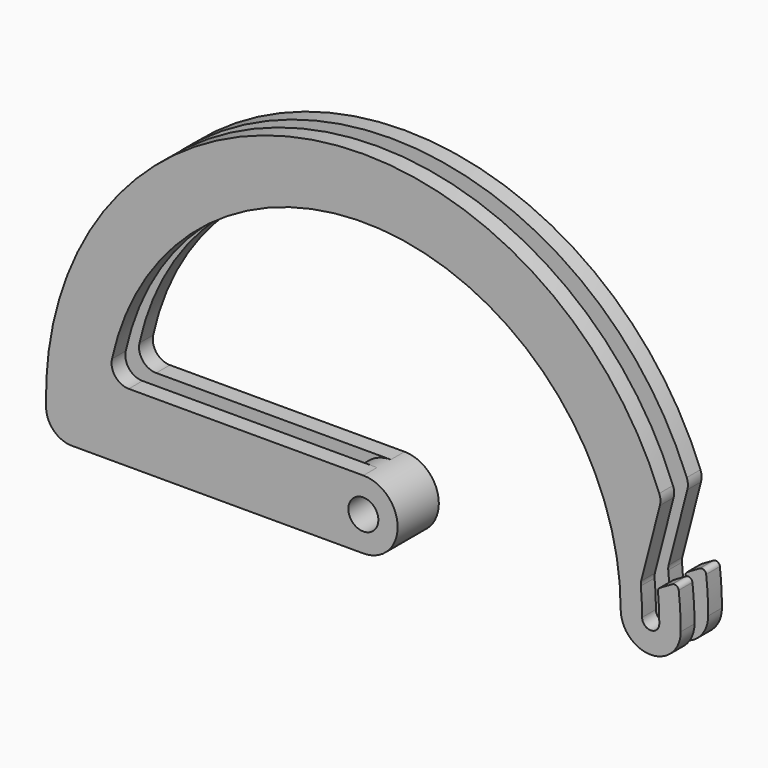
from build123d import *

# Parameters (mm, degrees)
F1_DEPTH = 2
F3_DEPTH = 2
F5_DEPTH = 2
F6_R     = 1.75
F7_DEPTH = 6


with BuildPart() as f1:
    # F0 (on Front) → F1 (new body)
    with BuildSketch(Plane.XZ):
        with BuildLine():
            Line((36.0155949142, 4.5501915368), (34.5935707333, 3.7231953967))
            ThreePointArc((34.5935707333, 3.7231953967), (34.4002745916, 3.51961513), (34.3471502153, 3.2439593227))
            ThreePointArc((34.3471502153, 3.2439593227), (34.4617663682, 1.6237791679), (34.5, 0))
            ThreePointArc((34.5, 0), (33.5, -1), (32.5, 0))
            ThreePointArc((32.5, 0), (32.4611135591, 1.589372991), (32.344547292, 3.1749425938))
            ThreePointArc((32.344547292, 3.1749425938), (32.3418598815, 3.4374174131), (32.3849685604, 3.6963419093))
            Line((32.3849685604, 3.6963419093), (34.5683472951, 12.1558157161))
            ThreePointArc((34.5683472951, 12.1558157161), (34.6283647637, 12.7729522849), (34.4964834196, 13.3788127905))
            ThreePointArc((34.4964834196, 13.3788127905), (-7.3396727546, 36.2647101719), (-36.9839930773, -1.0882352941))
            ThreePointArc((-36.9839930773, -1.0882352941), (-36.075182574, -3.1522901619), (-33.9852909359, -4))
            Line((-33.9852909359, -4), (-29.7321374946, -4))
            Line((-29.7321374946, -4), (0, -4))
            ThreePointArc((0, -4), (4, 0), (0, 4))
            Line((0, 4), (-27.3495886624, 4))
            ThreePointArc((-27.3495886624, 4), (-28.9079761073, 4.7464336589), (-29.3031307097, 6.4285714286))
            ThreePointArc((-29.3031307097, 6.4285714286), (3.2331160442, 29.825273857), (30, 0))
            ThreePointArc((30, 0), (33.5, -3.5), (37, 0))
            ThreePointArc((37, 0), (36.9408945016, 2.0905294604), (36.7637668419, 4.1743799053))
            ThreePointArc((36.7637668419, 4.1743799053), (36.4913900405, 4.5647699812), (36.0155949142, 4.5501915368))
        make_face()
    extrude(amount=F1_DEPTH)

    # F2 (on face) → F3 (join)
    with BuildSketch(Plane.XZ.offset(2)):
        with BuildLine():
            ThreePointArc((0, -4), (2.8284271247, -2.8284271247), (4, 0))
            ThreePointArc((4, 0), (2.8284271247, 2.8284271247), (0, 4))
            ThreePointArc((0, 4), (-4, 0), (0, -4))
        make_face()
    extrude(amount=F3_DEPTH)

    # F4 (on face) → F5 (join)
    with BuildSketch(Plane.XZ.offset(4)):
        with BuildLine():
            Line((36.0155949142, 4.5501915368), (34.5935707333, 3.7231953967))
            ThreePointArc((34.5935707333, 3.7231953967), (34.4002745916, 3.51961513), (34.3471502153, 3.2439593227))
            ThreePointArc((34.3471502153, 3.2439593227), (34.4617663682, 1.6237791679), (34.5, 0))
            ThreePointArc((34.5, 0), (33.5, -1), (32.5, 0))
            ThreePointArc((32.5, 0), (32.4611135591, 1.589372991), (32.344547292, 3.1749425938))
            ThreePointArc((32.344547292, 3.1749425938), (32.3418598815, 3.4374174131), (32.3849685604, 3.6963419093))
            Line((32.3849685604, 3.6963419093), (34.5683472951, 12.1558157161))
            ThreePointArc((34.5683472951, 12.1558157161), (34.6283647637, 12.7729522849), (34.4964834196, 13.3788127905))
            ThreePointArc((34.4964834196, 13.3788127905), (-7.3396727546, 36.2647101719), (-36.9839930773, -1.0882352941))
            ThreePointArc((-36.9839930773, -1.0882352941), (-36.075182574, -3.1522901619), (-33.9852909359, -4))
            Line((-33.9852909359, -4), (-29.7321374946, -4))
            Line((-29.7321374946, -4), (0, -4))
            ThreePointArc((0, -4), (-4, 0), (0, 4))
            Line((0, 4), (-27.3495886624, 4))
            ThreePointArc((-27.3495886624, 4), (-28.9079761073, 4.7464336589), (-29.3031307097, 6.4285714286))
            ThreePointArc((-29.3031307097, 6.4285714286), (3.2331160442, 29.825273857), (30, 0))
            ThreePointArc((30, 0), (33.5, -3.5), (37, 0))
            ThreePointArc((37, 0), (36.9408945016, 2.0905294604), (36.7637668419, 4.1743799053))
            ThreePointArc((36.7637668419, 4.1743799053), (36.4913900405, 4.5647699812), (36.0155949142, 4.5501915368))
        make_face()
        with BuildLine():
            ThreePointArc((4, 0), (2.8284271247, 2.8284271247), (0, 4))
            ThreePointArc((0, 4), (-4, 0), (0, -4))
            ThreePointArc((0, -4), (2.8284271247, -2.8284271247), (4, 0))
        make_face()
    extrude(amount=F5_DEPTH)

    # F6 (on face) → F7 (cut)
    with BuildSketch(Plane(origin=(0, 0, 0), x_dir=(-1, 0, 0), z_dir=(0, 1, 0))):
        Circle(F6_R)
    extrude(amount=-F7_DEPTH, mode=Mode.SUBTRACT)


solid = f1.part
